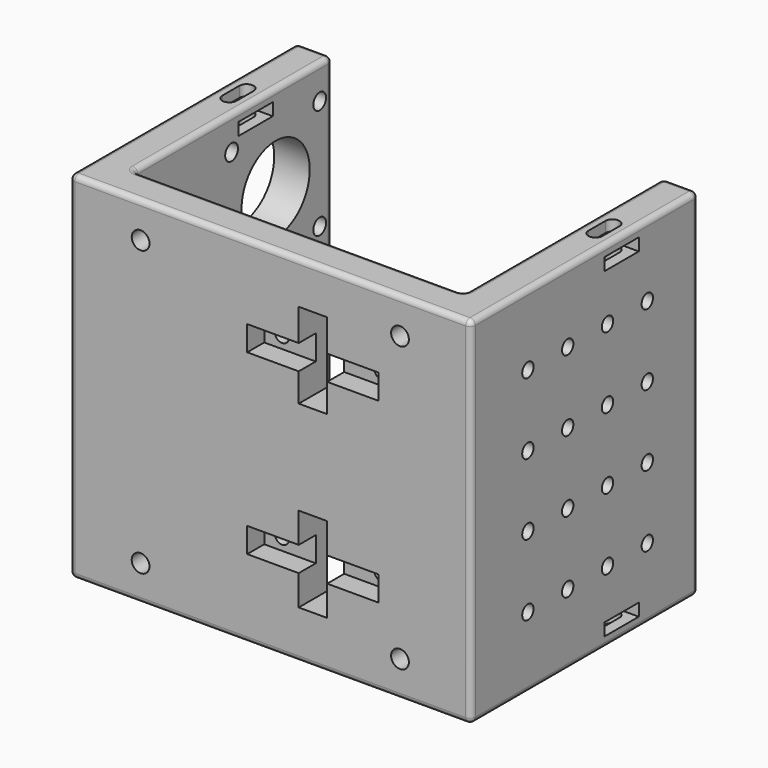
from build123d import *

# Parameters (mm, degrees)
BOX003_W                = 37
BOX003_H                = 7
BOX003_DEPTH            = 7
CYLINDER001_R           = 2
CYLINDER001_DEPTH       = 20
CYLINDER001_ROLL_ANGLE  = 90
ARRAY001_X_COUNT        = 2
ARRAY001_X_PITCH        = 28
ARRAY001_Z_COUNT        = 2
ARRAY001_Z_PITCH        = 50
BOX004_W                = 13
BOX004_H                = 12
BOX004_DEPTH            = 3.5
ARRAY003_X_COUNT        = 2
ARRAY003_X_PITCH        = 102
ARRAY003_Z_COUNT        = 2
ARRAY003_Z_PITCH        = 90.5
BOX002_W                = 37
BOX002_H                = 7
BOX002_DEPTH            = 7
BOX005_W                = 4
BOX005_H                = 6
BOX005_DEPTH            = 11
CYLINDER004_R           = 2
CYLINDER004_DEPTH       = 11
CYLINDER003_R           = 2
CYLINDER003_DEPTH       = 11
ARRAY004_X_COUNT        = 2
ARRAY004_X_PITCH        = 103
ARRAY004_Z_COUNT        = 2
ARRAY004_Z_PITCH        = 91
CYLINDER007_R           = 12
CYLINDER007_DEPTH       = 12
CYLINDER007_PITCH_ANGLE = 90
CYLINDER006_R           = 2.25
CYLINDER006_DEPTH       = 12
CYLINDER006_PITCH_ANGLE = 90
ARRAY006_Y_COUNT        = 2
ARRAY006_Y_PITCH        = 31
ARRAY006_Z_COUNT        = 2
ARRAY006_Z_PITCH        = 31
CYLINDER005_R           = 12
CYLINDER005_DEPTH       = 12
CYLINDER005_PITCH_ANGLE = 90
ARRAY005_Y_COUNT        = 2
ARRAY005_Y_PITCH        = 31
ARRAY005_Z_COUNT        = 2
ARRAY005_Z_PITCH        = 31
CYLINDER002_R           = 2
CYLINDER002_DEPTH       = 20
CYLINDER002_PITCH_ANGLE = 90
ARRAY002_Y_COUNT        = 4
ARRAY002_Y_PITCH        = 14
ARRAY002_Z_COUNT        = 4
ARRAY002_Z_PITCH        = 20
CYLINDER_R              = 2.5
CYLINDER_DEPTH          = 20
CYLINDER_ROLL_ANGLE     = 90
ARRAY_X_COUNT           = 2
ARRAY_X_PITCH           = 73
ARRAY_Z_COUNT           = 2
ARRAY_Z_PITCH           = 80
BOX001_W                = 8
BOX001_H                = 20
BOX001_DEPTH            = 24
BOX_W                   = 8
BOX_H                   = 20
BOX_DEPTH               = 24
EXTRUDE001_DEPTH        = 100
FILLET_R                = 1.5


with BuildPart() as h_bearing_up_h:
    # Box003 → Box003 (new body)
    with BuildSketch(Plane(origin=(50, -1, 72), x_dir=(1, 0, 0), z_dir=(0, 0, 1))):
        with Locations((18.5, 3.5)):
            Rectangle(BOX003_W, BOX003_H)
    extrude(amount=BOX003_DEPTH)


with BuildPart() as h_bearing_bolt:
    # Cylinder001 → Cylinder001 (new body)
    with BuildSketch(Plane.XY):
        Circle(CYLINDER001_R)
    extrude(amount=CYLINDER001_DEPTH)


with BuildPart() as h_bearing_bolt_1:
    # Cylinder001 roll: moved
    add(h_bearing_bolt.part.rotate(Axis((0, 0, 0), (1, 0, 0)), CYLINDER001_ROLL_ANGLE))


with BuildPart() as h_bearing_bolt_2:
    # Cylinder001 placement: moved
    add(h_bearing_bolt_1.part.moved(Location((55, 15, 25.5))))

    # Array001 X: h_bearing_bolt ×2


with BuildPart() as h_bearing_bolt_3:
    add(h_bearing_bolt_2.part)
    with Locations(*[(i * ARRAY001_X_PITCH, 0, 0) for i in range(1, ARRAY001_X_COUNT)]):
        add(h_bearing_bolt_2.part)

    # Array001 Z: h_bearing_bolt ×2


with BuildPart() as h_bearing_bolt_4:
    add(h_bearing_bolt_3.part)
    with Locations(*[(0, 0, i * ARRAY001_Z_PITCH) for i in range(1, ARRAY001_Z_COUNT)]):
        add(h_bearing_bolt_3.part)


with BuildPart() as h_nut_union001:
    # Box004 → Box004 (new body)
    with BuildSketch(Plane(origin=(-1, 47, 3), x_dir=(1, 0, 0), z_dir=(0, 0, 1))):
        with Locations((6.5, 6)):
            Rectangle(BOX004_W, BOX004_H)
    extrude(amount=BOX004_DEPTH)

    # Array003 X: h_nut_union001 ×2


with BuildPart() as h_nut_union001_1:
    add(h_nut_union001.part)
    with Locations(*[(i * ARRAY003_X_PITCH, 0, 0) for i in range(1, ARRAY003_X_COUNT)]):
        add(h_nut_union001.part)

    # Array003 Z: h_nut_union001 ×2


with BuildPart() as h_nut_union001_2:
    add(h_nut_union001_1.part)
    with Locations(*[(0, 0, i * ARRAY003_Z_PITCH) for i in range(1, ARRAY003_Z_COUNT)]):
        add(h_nut_union001_1.part)


with BuildPart() as h_bearing_dn_h:
    # Box002 → Box002 (new body)
    with BuildSketch(Plane(origin=(50, -1, 22), x_dir=(1, 0, 0), z_dir=(0, 0, 1))):
        with Locations((18.5, 3.5)):
            Rectangle(BOX002_W, BOX002_H)
    extrude(amount=BOX002_DEPTH)


with BuildPart() as h_bolt_union002:
    # Box005 → Box005 (new body)
    with BuildSketch(Plane(origin=(3, 50, -1), x_dir=(1, 0, 0), z_dir=(0, 0, 1))):
        with Locations((2, 3)):
            Rectangle(BOX005_W, BOX005_H)
    extrude(amount=BOX005_DEPTH)


with BuildPart() as h_bolt_union001:
    # Cylinder004 → Cylinder004 (new body)
    with BuildSketch(Plane(origin=(5, 56, -1), x_dir=(1, 0, 0), z_dir=(0, 0, 1))):
        Circle(CYLINDER004_R)
    extrude(amount=CYLINDER004_DEPTH)


with BuildPart() as h_bolt_union004:
    # Cylinder003 → Cylinder003 (new body)
    with BuildSketch(Plane(origin=(5, 50, -1), x_dir=(1, 0, 0), z_dir=(0, 0, 1))):
        Circle(CYLINDER003_R)
    extrude(amount=CYLINDER003_DEPTH)

    # Fusion: union h_bolt_union002, h_bolt_union001
    add(h_bolt_union002.part)
    add(h_bolt_union001.part)

    # Array004 X: h_bolt_union004 ×2


with BuildPart() as h_bolt_union004_1:
    add(h_bolt_union004.part)
    with Locations(*[(i * ARRAY004_X_PITCH, 0, 0) for i in range(1, ARRAY004_X_COUNT)]):
        add(h_bolt_union004.part)

    # Array004 Z: h_bolt_union004 ×2


with BuildPart() as h_bolt_union004_2:
    add(h_bolt_union004_1.part)
    with Locations(*[(0, 0, i * ARRAY004_Z_PITCH) for i in range(1, ARRAY004_Z_COUNT)]):
        add(h_bolt_union004_1.part)


with BuildPart() as h_motor_axis001:
    # Cylinder007 → Cylinder007 (new body)
    with BuildSketch(Plane.XY):
        Circle(CYLINDER007_R)
    extrude(amount=CYLINDER007_DEPTH)


with BuildPart() as h_motor_axis001_1:
    # Cylinder007 pitch: moved
    add(h_motor_axis001.part.rotate(Axis((0, 0, 0), (0, 1, 0)), CYLINDER007_PITCH_ANGLE))


with BuildPart() as h_motor_axis001_2:
    # Cylinder007 placement: moved
    add(h_motor_axis001_1.part.moved(Location((-1, 60, 25))))


with BuildPart() as h_bolt_motor:
    # Cylinder006 → Cylinder006 (new body)
    with BuildSketch(Plane.XY):
        Circle(CYLINDER006_R)
    extrude(amount=CYLINDER006_DEPTH)


with BuildPart() as h_bolt_motor_1:
    # Cylinder006 pitch: moved
    add(h_bolt_motor.part.rotate(Axis((0, 0, 0), (0, 1, 0)), CYLINDER006_PITCH_ANGLE))


with BuildPart() as h_bolt_motor_2:
    # Cylinder006 placement: moved
    add(h_bolt_motor_1.part.moved(Location((-1, 44.5, 9.5))))


with BuildPart() as h_holes_motor_dn:
    # Array006 base: copy of h_bolt_motor
    add(h_bolt_motor_2.part)

    # Array006 Y: h_holes_motor_dn ×2


with BuildPart() as h_holes_motor_dn_1:
    add(h_holes_motor_dn.part)
    with Locations(*[(0, i * ARRAY006_Y_PITCH, 0) for i in range(1, ARRAY006_Y_COUNT)]):
        add(h_holes_motor_dn.part)

    # Array006 Z: h_holes_motor_dn ×2


with BuildPart() as h_holes_motor_dn_2:
    add(h_holes_motor_dn_1.part)
    with Locations(*[(0, 0, i * ARRAY006_Z_PITCH) for i in range(1, ARRAY006_Z_COUNT)]):
        add(h_holes_motor_dn_1.part)

    # Fusion002: union h_motor_axis001
    add(h_motor_axis001_2.part)


with BuildPart() as h_motor_axis:
    # Cylinder005 → Cylinder005 (new body)
    with BuildSketch(Plane.XY):
        Circle(CYLINDER005_R)
    extrude(amount=CYLINDER005_DEPTH)


with BuildPart() as h_motor_axis_1:
    # Cylinder005 pitch: moved
    add(h_motor_axis.part.rotate(Axis((0, 0, 0), (0, 1, 0)), CYLINDER005_PITCH_ANGLE))


with BuildPart() as h_motor_axis_2:
    # Cylinder005 placement: moved
    add(h_motor_axis_1.part.moved(Location((-1, 60, 25))))


with BuildPart() as h_holes_motor_up:
    # Array005 base: copy of h_bolt_motor
    add(h_bolt_motor_2.part)

    # Array005 Y: h_holes_motor_up ×2


with BuildPart() as h_holes_motor_up_1:
    add(h_holes_motor_up.part)
    with Locations(*[(0, i * ARRAY005_Y_PITCH, 0) for i in range(1, ARRAY005_Y_COUNT)]):
        add(h_holes_motor_up.part)

    # Array005 Z: h_holes_motor_up ×2


with BuildPart() as h_holes_motor_up_2:
    add(h_holes_motor_up_1.part)
    with Locations(*[(0, 0, i * ARRAY005_Z_PITCH) for i in range(1, ARRAY005_Z_COUNT)]):
        add(h_holes_motor_up_1.part)

    # Fusion001: union h_motor_axis
    add(h_motor_axis_2.part)


with BuildPart() as h_holes_motor_up_3:
    # Fusion001 placement: moved
    add(h_holes_motor_up_2.part.moved(Location((0, 0, 50))))


with BuildPart() as h_front_holes:
    # Cylinder002 → Cylinder002 (new body)
    with BuildSketch(Plane.XY):
        Circle(CYLINDER002_R)
    extrude(amount=CYLINDER002_DEPTH)


with BuildPart() as h_front_holes_1:
    # Cylinder002 pitch: moved
    add(h_front_holes.part.rotate(Axis((0, 0, 0), (0, 1, 0)), CYLINDER002_PITCH_ANGLE))


with BuildPart() as h_front_holes_2:
    # Cylinder002 placement: moved
    add(h_front_holes_1.part.moved(Location((100, 20, 20))))

    # Array002 Y: h_front_holes ×4


with BuildPart() as h_front_holes_3:
    add(h_front_holes_2.part)
    with Locations(*[(0, i * ARRAY002_Y_PITCH, 0) for i in range(1, ARRAY002_Y_COUNT)]):
        add(h_front_holes_2.part)

    # Array002 Z: h_front_holes ×4


with BuildPart() as h_front_holes_4:
    add(h_front_holes_3.part)
    with Locations(*[(0, 0, i * ARRAY002_Z_PITCH) for i in range(1, ARRAY002_Z_COUNT)]):
        add(h_front_holes_3.part)


with BuildPart() as h_holes_extra_up:
    # Cylinder → Cylinder (new body)
    with BuildSketch(Plane.XY):
        Circle(CYLINDER_R)
    extrude(amount=CYLINDER_DEPTH)


with BuildPart() as h_holes_extra_up_1:
    # Cylinder roll: moved
    add(h_holes_extra_up.part.rotate(Axis((0, 0, 0), (1, 0, 0)), CYLINDER_ROLL_ANGLE))


with BuildPart() as h_holes_extra_up_2:
    # Cylinder placement: moved
    add(h_holes_extra_up_1.part.moved(Location((20, 15, 10))))

    # Array X: h_holes_extra_up ×2


with BuildPart() as h_holes_extra_up_3:
    add(h_holes_extra_up_2.part)
    with Locations(*[(i * ARRAY_X_PITCH, 0, 0) for i in range(1, ARRAY_X_COUNT)]):
        add(h_holes_extra_up_2.part)

    # Array Z: h_holes_extra_up ×2


with BuildPart() as h_holes_extra_up_4:
    add(h_holes_extra_up_3.part)
    with Locations(*[(0, 0, i * ARRAY_Z_PITCH) for i in range(1, ARRAY_Z_COUNT)]):
        add(h_holes_extra_up_3.part)


with BuildPart() as h_bearing_dn_v:
    # Box001 → Box001 (new body)
    with BuildSketch(Plane(origin=(64.5, -5, 13.5), x_dir=(1, 0, 0), z_dir=(0, 0, 1))):
        with Locations((4, 10)):
            Rectangle(BOX001_W, BOX001_H)
    extrude(amount=BOX001_DEPTH)


with BuildPart() as holes:
    # Box → Box (new body)
    with BuildSketch(Plane(origin=(64.5, -5, 64), x_dir=(1, 0, 0), z_dir=(0, 0, 1))):
        with Locations((4, 10)):
            Rectangle(BOX_W, BOX_H)
    extrude(amount=BOX_DEPTH)

    # Fusion003: union h_bearing_up_h, h_bearing_bolt, h_nut_union001, h_bearing_dn_h, h_bolt_union004, h_holes_motor_dn, h_holes_motor_up, h_front_holes, h_holes_extra_up, h_bearing_dn_v
    add(h_bearing_up_h.part)
    add(h_bearing_bolt_4.part)
    add(h_nut_union001_2.part)
    add(h_bearing_dn_h.part)
    add(h_bolt_union004_2.part)
    add(h_holes_motor_dn_2.part)
    add(h_holes_motor_up_3.part)
    add(h_front_holes_4.part)
    add(h_holes_extra_up_4.part)
    add(h_bearing_dn_v.part)


with BuildPart() as fillet_body:
    # Sketch → Extrude001 (new body)
    with BuildSketch(Plane.XY):
        Polygon((-56.5, 80), (-46.5, 80), (-46.5, 10), (46.5, 10), (46.5, 80), (56.5, 80), (56.5, 0), (-56.5, 0), align=None)
    extrude(amount=EXTRUDE001_DEPTH)


with BuildPart() as fillet_body_1:
    # Extrude001 placement: moved
    add(fillet_body.part.moved(Location((56.5, 0, 0))))

    # Cut: cut holes
    add(holes.part, mode=Mode.SUBTRACT)

    # Fillet
    fillet_edges = [fillet_body_1.edges().sort_by_distance(p)[0] for p in [
        (0, 80, 50),
        (10, 80, 50),
        (5, 80, 0),
        (5, 80, 100),
        (0, 0, 50),
        (0, 40, 0),
        (0, 40, 100),
        (10, 45, 0),
        (10, 45, 100),
        (10, 10, 50),
        (56.5, 0, 0),
        (56.5, 10, 0),
        (113, 40, 0),
        (103, 45, 0),
        (108, 80, 0),
        (56.5, 0, 100),
        (56.5, 10, 100),
        (113, 40, 100),
        (103, 45, 100),
        (108, 80, 100),
        (113, 0, 50),
        (103, 10, 50),
        (113, 80, 50),
        (103, 80, 50),
    ]]
    fillet(fillet_edges, radius=FILLET_R)


solid = fillet_body_1.part
